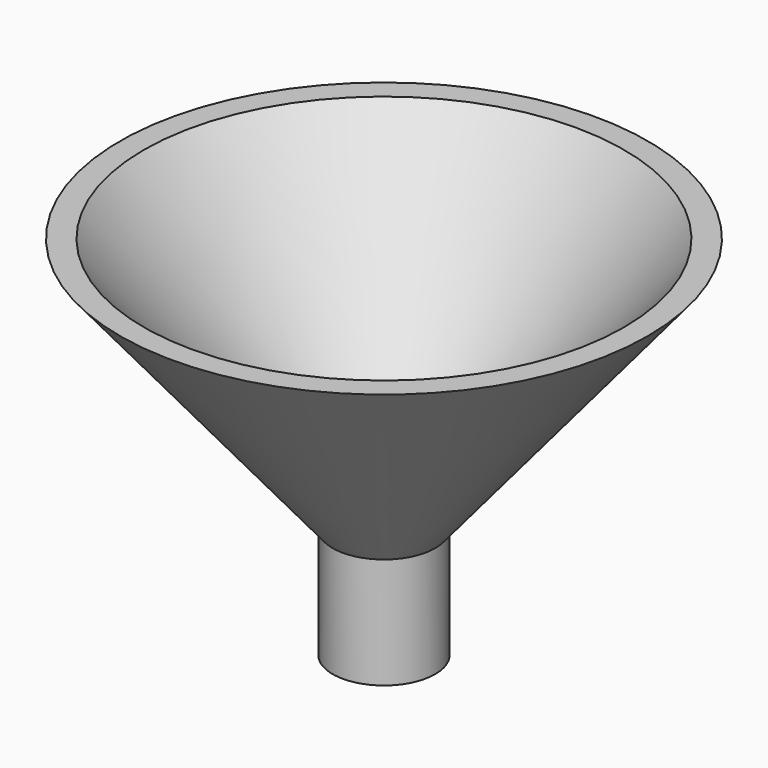
from build123d import *

# Parameters (mm, degrees)
F2_R     = 10.816398
F3_DEPTH = 50.8


with BuildPart() as f1:
    # F0 (on Front) → F1 (revolve)
    with BuildSketch(Plane.XZ):
        Polygon((0, -25.4), (0, 0), (48.703312, 58.603988), (43.251231, 58.603988), (-5.452081, 0), (-11.743711, 0), (-11.743711, -25.4), align=None)
    revolve(axis=Axis((-11.743711, 0, -12.7), (0, 0, -1)))

    # F2 (on face) → F3 (cut)
    with BuildSketch(Plane(origin=(0, 0, -25.4), x_dir=(1, 0, 0), z_dir=(0, 0, -1))):
        with Locations((-11.743711, 0)):
            Circle(F2_R)
    extrude(amount=-F3_DEPTH, mode=Mode.SUBTRACT)


solid = f1.part
